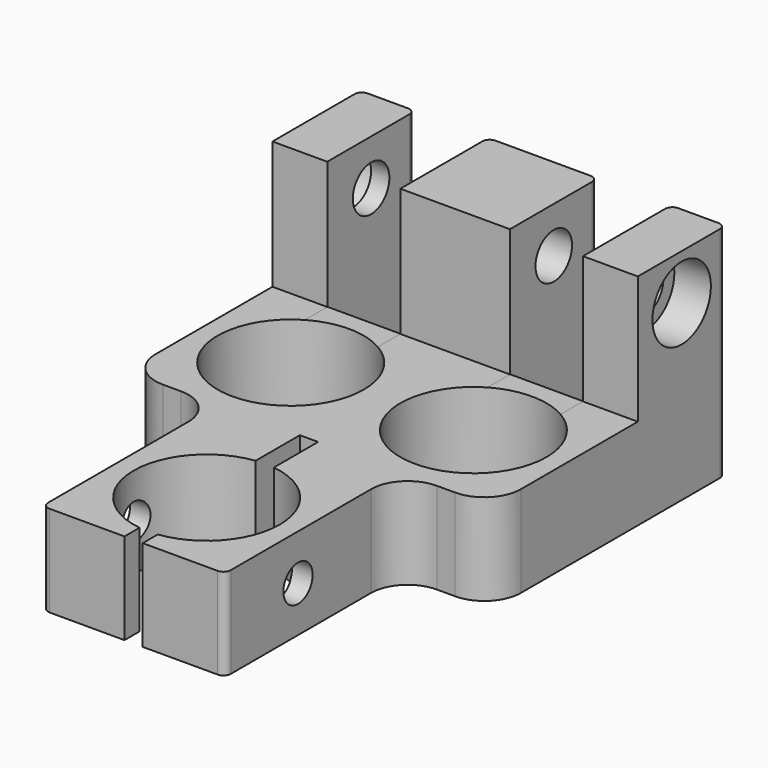
from build123d import *

# Parameters (mm, degrees)
F0_R      = 12.7
F1_DEPTH  = 38.1
F2_W      = 69.85
F2_H      = 22.225
F3_DEPTH  = 63.501
F4_W      = 12.7
F4_H      = 29.490311
F5_DEPTH  = 88.951801
F6_R      = 3.96875
F6_R_2    = 3.175
F7_DEPTH  = 63.501
F8_R      = 6.35
F9_DEPTH  = 6.35
F10_R     = 6.35
F11_DEPTH = 6.35


with BuildPart() as f1:
    # F0 (on Top) → F1 (new body)
    with BuildSketch(Plane.XY):
        with BuildLine():
            ThreePointArc((-1.5875, -50.700391), (-12.7, -38.1), (-1.5875, -25.499609))
            Line((-1.5875, -25.499609), (-1.5875, -15.875))
            Line((-1.5875, -15.875), (1.5875, -15.875))
            Line((1.5875, -15.875), (1.5875, -25.499609))
            ThreePointArc((1.5875, -25.499609), (12.7, -38.1), (1.5875, -50.700391))
            Line((1.5875, -50.700391), (1.5875, -53.975))
            Line((1.5875, -53.975), (14.605, -53.975))
            ThreePointArc((14.605, -53.975), (15.503026, -53.603026), (15.875, -52.705))
            Line((15.875, -52.705), (15.875, -22.225))
            ThreePointArc((15.875, -22.225), (17.734872, -17.734872), (22.225, -15.875))
            Line((22.225, -15.875), (25.4, -15.875))
            ThreePointArc((25.4, -15.875), (29.890128, -14.015128), (31.75, -9.525))
            Line((31.75, -9.525), (31.75, 33.705801))
            ThreePointArc((31.75, 33.705801), (31.378026, 34.603826), (30.48, 34.975801))
            Line((30.48, 34.975801), (23.495, 34.975801))
            ThreePointArc((23.495, 34.975801), (22.596974, 34.603826), (22.225, 33.705801))
            Line((22.225, 33.705801), (22.225, 15.98998))
            ThreePointArc((22.225, 15.98998), (22.206202, 15.944598), (22.160821, 15.925801))
            Line((22.160821, 15.925801), (9.589179, 15.925801))
            ThreePointArc((9.589179, 15.925801), (9.543798, 15.944598), (9.525, 15.98998))
            Line((9.525, 15.98998), (9.525, 33.705801))
            ThreePointArc((9.525, 33.705801), (9.153026, 34.603826), (8.255, 34.975801))
            Line((8.255, 34.975801), (-8.255, 34.975801))
            ThreePointArc((-8.255, 34.975801), (-9.153026, 34.603826), (-9.525, 33.705801))
            Line((-9.525, 33.705801), (-9.525, 15.925801))
            Line((-9.525, 15.925801), (-22.225, 15.925801))
            Line((-22.225, 15.925801), (-22.225, 33.705801))
            ThreePointArc((-22.225, 33.705801), (-22.596974, 34.603826), (-23.495, 34.975801))
            Line((-23.495, 34.975801), (-30.48, 34.975801))
            ThreePointArc((-30.48, 34.975801), (-31.378026, 34.603826), (-31.75, 33.705801))
            Line((-31.75, 33.705801), (-31.75, -9.525))
            ThreePointArc((-31.75, -9.525), (-29.890128, -14.015128), (-25.4, -15.875))
            Line((-25.4, -15.875), (-22.225, -15.875))
            ThreePointArc((-22.225, -15.875), (-17.734872, -17.734872), (-15.875, -22.225))
            Line((-15.875, -22.225), (-15.875, -52.705))
            ThreePointArc((-15.875, -52.705), (-15.503026, -53.603026), (-14.605, -53.975))
            Line((-14.605, -53.975), (-1.5875, -53.975))
            Line((-1.5875, -53.975), (-1.5875, -50.700391))
        make_face()
        with Locations((-15.875, 0)):
            Circle(F0_R, mode=Mode.SUBTRACT)
        with Locations((15.875, 0)):
            Circle(F0_R, mode=Mode.SUBTRACT)
    extrude(amount=F1_DEPTH)

    # F2 (on face) → F3 (cut, through all)
    with BuildSketch(Plane.YZ.offset(31.75)):
        with Locations((-19.05, 26.9875)):
            Rectangle(F2_W, F2_H)
    extrude(amount=-F3_DEPTH, mode=Mode.SUBTRACT)

    # F4 (on face) → F5 (cut, through all)
    with BuildSketch(Plane(origin=(0, 34.975801, 0), x_dir=(-1, 0, 0), z_dir=(0, 1, 0))):
        with Locations((15.875, 30.620155)):
            Rectangle(F4_W, F4_H)
        with Locations((-15.875, 30.620155)):
            Rectangle(F4_W, F4_H)
    extrude(amount=-F5_DEPTH, mode=Mode.SUBTRACT)

    # F6 (on face) → F7 (cut, through all)
    with BuildSketch(Plane.YZ.offset(31.75)):
        with Locations((25.4, 30.1625)):
            Circle(F6_R)
        with Locations((-38.1, 7.9375)):
            Circle(F6_R_2)
    extrude(amount=-F7_DEPTH, mode=Mode.SUBTRACT)

    # F8 (on face) → F9 (cut)
    with BuildSketch(Plane.YZ.offset(31.75)):
        with Locations((25.4, 30.1625)):
            Circle(F8_R)
    extrude(amount=-F9_DEPTH, mode=Mode.SUBTRACT)

    # F10 (on face) → F11 (cut)
    with BuildSketch(Plane(origin=(-31.75, 0, 0), x_dir=(0, -1, 0), z_dir=(-1, 0, 0))):
        with Locations((-25.4, 30.1625)):
            Circle(F10_R)
    extrude(amount=-F11_DEPTH, mode=Mode.SUBTRACT)


solid = f1.part
